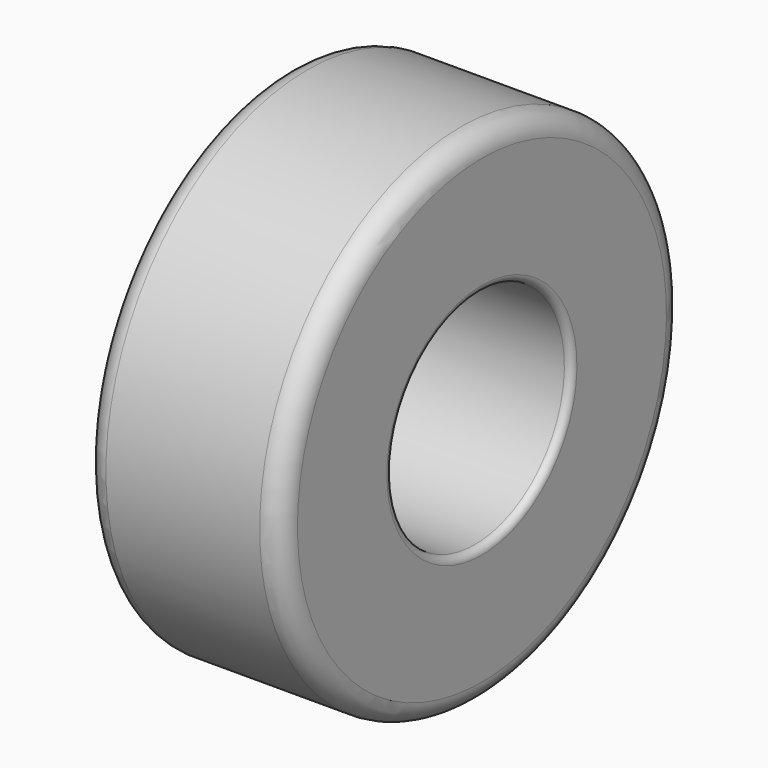
from build123d import *


with BuildPart() as f1:
    # F0 (on Front) → F1 (revolve)
    with BuildSketch(Plane.XZ):
        with BuildLine():
            Line((-41.275, 50.8), (41.275, 50.8))
            ThreePointArc((41.275, 50.8), (43.520064, 51.729936), (44.45, 53.975))
            Line((44.45, 53.975), (44.45, 104.775))
            ThreePointArc((44.45, 104.775), (41.660192, 111.510192), (34.925, 114.3))
            Line((34.925, 114.3), (-34.925, 114.3))
            ThreePointArc((-34.925, 114.3), (-41.660192, 111.510192), (-44.45, 104.775))
            Line((-44.45, 104.775), (-44.45, 53.975))
            ThreePointArc((-44.45, 53.975), (-43.520064, 51.729936), (-41.275, 50.8))
        make_face()
    revolve(axis=Axis((1.813406, 0, 0), (1, 0, 0)))


solid = f1.part
